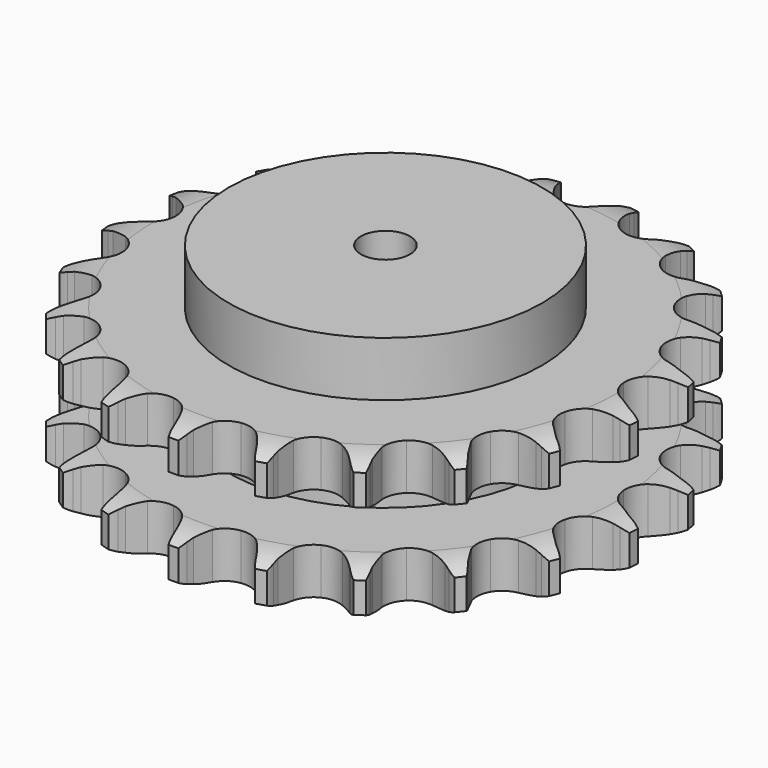
from build123d import *

# Parameters (mm, degrees)
PAD_DEPTH         = 72
SKETCH001_R       = 80
PAD001_DEPTH      = 100
SKETCH002_R       = 12.5
POCKET_DEPTH      = 0.001
POCKET_DEPTH_BACK = 100.001


with BuildPart() as part:
    # Sprocket → Pad (new body)
    with BuildSketch(Plane.XY):
        with BuildLine():
            ThreePointArc((-20.768055, 137.787043), (-17.890143, 134.435212), (-15.777685, 130.555176))
            Line((-15.777685, 130.555176), (-14.551578, 127.598568))
            ThreePointArc((-14.551578, 127.598568), (-12.585412, 123.630303), (-10.107418, 119.959817))
            ThreePointArc((-10.107418, 119.959817), (-5.626192, 116.317095), (0, 115.014492))
            ThreePointArc((0, 115.014492), (5.626192, 116.317095), (10.107418, 119.959817))
            ThreePointArc((10.107418, 119.959817), (12.585412, 123.630303), (14.551578, 127.598568))
            Line((14.551578, 127.598568), (15.777685, 130.555176))
            ThreePointArc((15.777685, 130.555176), (17.890143, 134.435212), (20.768055, 137.787043))
            ThreePointArc((20.768055, 137.787043), (22.530141, 133.735845), (23.405087, 129.40553))
            Line((23.405087, 129.40553), (23.705246, 126.218874))
            ThreePointArc((23.705246, 126.218874), (24.414394, 121.847371), (25.700403, 117.609552))
            ThreePointArc((25.700403, 117.609552), (28.90883, 112.807802), (33.901117, 109.904721))
            ThreePointArc((33.901117, 109.904721), (39.661302, 109.491104), (45.017151, 111.651125))
            Line((45.017151, 111.651125), (51.51543, 117.640568))
            ThreePointArc((51.51543, 117.640568), (52.507205, 118.897189), (53.55854, 120.104422))
            ThreePointArc((53.55854, 120.104422), (56.720808, 123.18942), (60.458833, 125.54406))
            ThreePointArc((60.458833, 125.54406), (60.948522, 121.153461), (60.508215, 116.757635))
            Line((60.508215, 116.757635), (59.855755, 113.62408))
            ThreePointArc((59.855755, 113.62408), (59.244874, 109.237765), (59.22463, 104.809163))
            ThreePointArc((59.22463, 104.809163), (60.875175, 99.275041), (64.78997, 95.029433))
            ThreePointArc((64.78997, 95.029433), (70.172331, 92.936347), (75.926912, 93.421741))
            Line((75.926912, 93.421741), (83.90191, 97.229689))
            ThreePointArc((83.90191, 97.229689), (85.220019, 98.13815), (86.580484, 98.981862))
            ThreePointArc((86.580484, 98.981862), (90.511581, 100.997709), (94.777578, 102.145936))
            ThreePointArc((94.777578, 102.145936), (93.95136, 97.80606), (92.234921, 93.735311))
            Line((92.234921, 93.735311), (90.687817, 90.933287))
            ThreePointArc((90.687817, 90.933287), (88.811187, 86.921905), (87.486489, 82.69602))
            ThreePointArc((87.486489, 82.69602), (87.432494, 76.921256), (89.921951, 71.710363))
            ThreePointArc((89.921951, 71.710363), (94.44824, 68.123789), (100.090233, 66.891425))
            Line((100.090233, 66.891425), (108.833338, 68.179524))
            ThreePointArc((108.833338, 68.179524), (110.360661, 68.659106), (111.909372, 69.06433))
            ThreePointArc((111.909372, 69.06433), (116.260002, 69.831907), (120.674919, 69.671697))
            ThreePointArc((120.674919, 69.671697), (118.606207, 65.768162), (115.766151, 62.384194))
            Line((115.766151, 62.384194), (113.461869, 60.162673))
            ThreePointArc((113.461869, 60.162673), (110.486236, 56.882652), (107.97479, 53.234973))
            ThreePointArc((107.97479, 53.234973), (106.221052, 47.732681), (107.063971, 42.019512))
            ThreePointArc((107.063971, 42.019512), (110.332009, 37.258132), (115.360099, 34.417512))
            Line((115.360099, 34.417512), (124.094445, 33.07131))
            ThreePointArc((124.094445, 33.07131), (125.695273, 33.079399), (127.294622, 33.010129))
            ThreePointArc((127.294622, 33.010129), (131.678213, 32.461234), (135.849764, 31.006822))
            ThreePointArc((135.849764, 31.006822), (132.722372, 27.886474), (129.011049, 25.489968))
            Line((129.011049, 25.489968), (126.154335, 24.046341))
            ThreePointArc((126.154335, 24.046341), (122.344099, 21.789125), (118.869056, 19.043764))
            ThreePointArc((118.869056, 19.043764), (115.571403, 14.302847), (114.692888, 8.595044))
            ThreePointArc((114.692888, 8.595044), (116.412295, 3.081928), (120.379713, -1.114547))
            Line((120.379713, -1.114547), (128.329217, -4.975436))
            ThreePointArc((128.329217, -4.975436), (129.861309, -5.439558), (131.369185, -5.977167))
            ThreePointArc((131.369185, -5.977167), (135.396236, -7.793762), (138.953762, -10.413145))
            ThreePointArc((138.953762, -10.413145), (135.045572, -12.47305), (130.79275, -13.669155))
            Line((130.79275, -13.669155), (127.637436, -14.206613))
            ThreePointArc((127.637436, -14.206613), (123.331151, -15.240461), (119.201286, -16.839566))
            ThreePointArc((119.201286, -16.839566), (114.652728, -20.397857), (112.130839, -25.593132))
            ThreePointArc((112.130839, -25.593132), (112.148837, -31.36812), (114.703061, -36.547574))
            Line((114.703061, -36.547574), (121.161374, -42.580092))
            ThreePointArc((121.161374, -42.580092), (122.488597, -43.475186), (123.77102, -44.433365))
            ThreePointArc((123.77102, -44.433365), (127.083709, -47.356248), (129.711108, -50.907858))
            ThreePointArc((129.711108, -50.907858), (125.36938, -51.724288), (120.952941, -51.613712))
            Line((120.952941, -51.613712), (117.77939, -51.197248))
            ThreePointArc((117.77939, -51.197248), (113.35969, -50.915865), (108.941958, -51.226627))
            ThreePointArc((108.941958, -51.226627), (103.546655, -53.286123), (99.605472, -57.507246))
            ThreePointArc((99.605472, -57.507246), (97.920463, -63.030973), (98.83454, -68.733189))
            Line((98.83454, -68.733189), (103.227812, -76.40132))
            ThreePointArc((103.227812, -76.40132), (104.232236, -77.647854), (105.175257, -78.941464))
            ThreePointArc((105.175257, -78.941464), (107.479237, -82.710924), (108.943052, -86.879185))
            ThreePointArc((108.943052, -86.879185), (104.553569, -86.379596), (100.365933, -84.972165))
            Line((100.365933, -84.972165), (97.456128, -83.638782))
            ThreePointArc((97.456128, -83.638782), (93.315722, -82.067171), (89.002659, -81.061978))
            ThreePointArc((89.002659, -81.061978), (83.240007, -81.439682), (78.229722, -84.311589))
            ThreePointArc((78.229722, -84.311589), (74.991427, -89.093247), (74.184135, -94.811558))
            Line((74.184135, -94.811558), (76.122006, -103.433955))
            ThreePointArc((76.122006, -103.433955), (76.714384, -104.921168), (77.23421, -106.435267))
            ThreePointArc((77.23421, -106.435267), (78.324764, -110.716371), (78.494929, -115.130915))
            ThreePointArc((78.494929, -115.130915), (74.447714, -113.359699), (70.860971, -110.780468))
            Line((70.860971, -110.780468), (68.473462, -108.648644))
            ThreePointArc((68.473462, -108.648644), (64.980243, -105.926449), (61.155083, -103.694616))
            ThreePointArc((61.155083, -103.694616), (55.53712, -102.356968), (49.902918, -103.624477))
            ThreePointArc((49.902918, -103.624477), (45.399072, -107.239195), (42.942145, -112.465505))
            Line((42.942145, -112.465505), (42.252425, -121.27603))
            ThreePointArc((42.252425, -121.27603), (42.380122, -122.871777), (42.430565, -124.47183))
            ThreePointArc((42.430565, -124.47183), (42.210791, -128.884183), (41.072186, -133.152758))
            ThreePointArc((41.072186, -133.152758), (37.726853, -130.267294), (35.0597, -126.745441))
            Line((35.0597, -126.745441), (33.406628, -124.004597))
            ThreePointArc((33.406628, -124.004597), (30.870984, -120.373697), (27.87361, -117.113532))
            ThreePointArc((27.87361, -117.113532), (22.899515, -114.179389), (17.142021, -113.729875))
            ThreePointArc((17.142021, -113.729875), (11.772812, -115.85647), (7.884556, -120.126397))
            Line((7.884556, -120.126397), (4.628531, -128.342197))
            ThreePointArc((4.628531, -128.342197), (4.2802, -129.904689), (3.856778, -131.448524))
            ThreePointArc((3.856778, -131.448524), (2.346204, -135.600069), (0, -139.343394))
            ThreePointArc((0, -139.343394), (-2.346204, -135.600069), (-3.856778, -131.448524))
            Line((-3.856778, -131.448524), (-4.628531, -128.342197))
            ThreePointArc((-4.628531, -128.342197), (-5.981297, -124.125213), (-7.884556, -120.126397))
            ThreePointArc((-7.884556, -120.126397), (-11.772812, -115.85647), (-17.142021, -113.729875))
            ThreePointArc((-17.142021, -113.729875), (-22.899515, -114.179389), (-27.87361, -117.113532))
            Line((-27.87361, -117.113532), (-33.406628, -124.004597))
            ThreePointArc((-33.406628, -124.004597), (-34.200037, -125.394999), (-35.0597, -126.745441))
            ThreePointArc((-35.0597, -126.745441), (-37.726853, -130.267294), (-41.072186, -133.152758))
            ThreePointArc((-41.072186, -133.152758), (-42.210791, -128.884183), (-42.430565, -124.47183))
            Line((-42.430565, -124.47183), (-42.252425, -121.27603))
            ThreePointArc((-42.252425, -121.27603), (-42.302113, -116.84766), (-42.942145, -112.465505))
            ThreePointArc((-42.942145, -112.465505), (-45.399072, -107.239195), (-49.902918, -103.624477))
            ThreePointArc((-49.902918, -103.624477), (-55.53712, -102.356968), (-61.155083, -103.694616))
            Line((-61.155083, -103.694616), (-68.473462, -108.648644))
            ThreePointArc((-68.473462, -108.648644), (-69.64145, -109.743413), (-70.860971, -110.780468))
            ThreePointArc((-70.860971, -110.780468), (-74.447714, -113.359699), (-78.494929, -115.130915))
            ThreePointArc((-78.494929, -115.130915), (-78.324764, -110.716371), (-77.23421, -106.435267))
            Line((-77.23421, -106.435267), (-76.122006, -103.433955))
            ThreePointArc((-76.122006, -103.433955), (-74.864202, -99.18768), (-74.184135, -94.811558))
            ThreePointArc((-74.184135, -94.811558), (-74.991427, -89.093247), (-78.229722, -84.311589))
            ThreePointArc((-78.229722, -84.311589), (-83.240007, -81.439682), (-89.002659, -81.061978))
            Line((-89.002659, -81.061978), (-97.456128, -83.638782))
            ThreePointArc((-97.456128, -83.638782), (-98.894914, -84.340644), (-100.365933, -84.972165))
            ThreePointArc((-100.365933, -84.972165), (-104.553569, -86.379596), (-108.943052, -86.879185))
            ThreePointArc((-108.943052, -86.879185), (-107.479237, -82.710924), (-105.175257, -78.941464))
            Line((-105.175257, -78.941464), (-103.227812, -76.40132))
            ThreePointArc((-103.227812, -76.40132), (-100.774277, -72.714439), (-98.83454, -68.733189))
            ThreePointArc((-98.83454, -68.733189), (-97.920463, -63.030973), (-99.605472, -57.507246))
            ThreePointArc((-99.605472, -57.507246), (-103.546655, -53.286123), (-108.941958, -51.226627))
            Line((-108.941958, -51.226627), (-117.77939, -51.197248))
            ThreePointArc((-117.77939, -51.197248), (-119.361132, -51.443838), (-120.952941, -51.613712))
            ThreePointArc((-120.952941, -51.613712), (-125.36938, -51.724288), (-129.711108, -50.907858))
            ThreePointArc((-129.711108, -50.907858), (-127.083709, -47.356248), (-123.77102, -44.433365))
            Line((-123.77102, -44.433365), (-121.161374, -42.580092))
            ThreePointArc((-121.161374, -42.580092), (-117.730116, -39.7802), (-114.703061, -36.547574))
            ThreePointArc((-114.703061, -36.547574), (-112.148837, -31.36812), (-112.130839, -25.593132))
            ThreePointArc((-112.130839, -25.593132), (-114.652728, -20.397857), (-119.201286, -16.839566))
            Line((-119.201286, -16.839566), (-127.637436, -14.206613))
            ThreePointArc((-127.637436, -14.206613), (-129.221589, -13.976021), (-130.79275, -13.669155))
            ThreePointArc((-130.79275, -13.669155), (-135.045572, -12.47305), (-138.953762, -10.413145))
            ThreePointArc((-138.953762, -10.413145), (-135.396236, -7.793762), (-131.369185, -5.977167))
            Line((-131.369185, -5.977167), (-128.329217, -4.975436))
            ThreePointArc((-128.329217, -4.975436), (-124.225117, -3.311317), (-120.379713, -1.114547))
            ThreePointArc((-120.379713, -1.114547), (-116.412295, 3.081928), (-114.692888, 8.595044))
            ThreePointArc((-114.692888, 8.595044), (-115.571403, 14.302847), (-118.869056, 19.043764))
            Line((-118.869056, 19.043764), (-126.154335, 24.046341))
            ThreePointArc((-126.154335, 24.046341), (-127.600141, 24.733626), (-129.011049, 25.489968))
            ThreePointArc((-129.011049, 25.489968), (-132.722372, 27.886474), (-135.849764, 31.006822))
            ThreePointArc((-135.849764, 31.006822), (-131.678213, 32.461234), (-127.294622, 33.010129))
            Line((-127.294622, 33.010129), (-124.094445, 33.07131))
            ThreePointArc((-124.094445, 33.07131), (-119.682171, 33.451792), (-115.360099, 34.417512))
            ThreePointArc((-115.360099, 34.417512), (-110.332009, 37.258132), (-107.063971, 42.019512))
            ThreePointArc((-107.063971, 42.019512), (-106.221052, 47.732681), (-107.97479, 53.234973))
            Line((-107.97479, 53.234973), (-113.461869, 60.162673))
            ThreePointArc((-113.461869, 60.162673), (-114.64086, 61.245583), (-115.766151, 62.384194))
            ThreePointArc((-115.766151, 62.384194), (-118.606207, 65.768162), (-120.674919, 69.671697))
            ThreePointArc((-120.674919, 69.671697), (-116.260002, 69.831907), (-111.909372, 69.06433))
            Line((-111.909372, 69.06433), (-108.833338, 68.179524))
            ThreePointArc((-108.833338, 68.179524), (-104.50494, 67.242562), (-100.090233, 66.891425))
            ThreePointArc((-100.090233, 66.891425), (-94.44824, 68.123789), (-89.921951, 71.710363))
            ThreePointArc((-89.921951, 71.710363), (-87.432494, 76.921256), (-87.486489, 82.69602))
            Line((-87.486489, 82.69602), (-90.687817, 90.933287))
            ThreePointArc((-90.687817, 90.933287), (-91.495236, 92.3156), (-92.234921, 93.735311))
            ThreePointArc((-92.234921, 93.735311), (-93.95136, 97.80606), (-94.777578, 102.145936))
            ThreePointArc((-94.777578, 102.145936), (-90.511581, 100.997709), (-86.580484, 98.981862))
            Line((-86.580484, 98.981862), (-83.90191, 97.229689))
            ThreePointArc((-83.90191, 97.229689), (-80.041985, 95.058535), (-75.926912, 93.421741))
            ThreePointArc((-75.926912, 93.421741), (-70.172331, 92.936347), (-64.78997, 95.029433))
            ThreePointArc((-64.78997, 95.029433), (-60.875175, 99.275041), (-59.22463, 104.809163))
            Line((-59.22463, 104.809163), (-59.855755, 113.62408))
            ThreePointArc((-59.855755, 113.62408), (-60.219859, 115.182971), (-60.508215, 116.757635))
            ThreePointArc((-60.508215, 116.757635), (-60.948522, 121.153461), (-60.458833, 125.54406))
            ThreePointArc((-60.458833, 125.54406), (-56.720808, 123.18942), (-53.55854, 120.104422))
            Line((-53.55854, 120.104422), (-51.51543, 117.640568))
            ThreePointArc((-51.51543, 117.640568), (-48.466949, 114.42814), (-45.017151, 111.651125))
            ThreePointArc((-45.017151, 111.651125), (-39.661302, 109.491104), (-33.901117, 109.904721))
            ThreePointArc((-33.901117, 109.904721), (-28.90883, 112.807802), (-25.700403, 117.609552))
            Line((-25.700403, 117.609552), (-23.705246, 126.218874))
            ThreePointArc((-23.705246, 126.218874), (-23.593683, 127.81583), (-23.405087, 129.40553))
            ThreePointArc((-23.405087, 129.40553), (-22.530141, 133.735845), (-20.768055, 137.787043))
        make_face()
    extrude(amount=PAD_DEPTH)

    # Sketch → Groove (revolve, cut)
    with BuildSketch(Plane.XZ):
        with BuildLine():
            ThreePointArc((118.329437, 0), (127.047235, 1.013516), (135.3, 4))
            Line((135.3, 4), (135.3, 19.6))
            ThreePointArc((135.3, 19.6), (127.047235, 22.586484), (118.329437, 23.6))
            Line((80, 23.6), (118.329437, 23.6))
            Line((80, 48.4), (80, 23.6))
            Line((118.329437, 48.4), (80, 48.4))
            ThreePointArc((118.329437, 48.4), (127.047235, 49.413516), (135.3, 52.4))
            Line((135.3, 52.4), (135.3, 68))
            ThreePointArc((135.3, 68), (127.047235, 70.986484), (118.329437, 72))
            Line((118.329437, 72), (145.3, 72))
            Line((145.3, 72), (145.3, 0))
            Line((118.329437, 0), (145.3, 0))
        make_face()
    revolve(axis=Axis((0, 0, 0), (0, 0, 1)), mode=Mode.SUBTRACT)

    # Sketch001 → Pad001 (join)
    with BuildSketch(Plane.XY):
        Circle(SKETCH001_R)
    extrude(amount=PAD001_DEPTH)

    # Sketch002 → Pocket (cut, two sides)
    with BuildSketch(Plane.XY) as pocket_sk:
        Circle(SKETCH002_R)
    extrude(amount=-POCKET_DEPTH, mode=Mode.SUBTRACT)
    extrude(pocket_sk.sketch, amount=POCKET_DEPTH_BACK, mode=Mode.SUBTRACT)


solid = part.part
